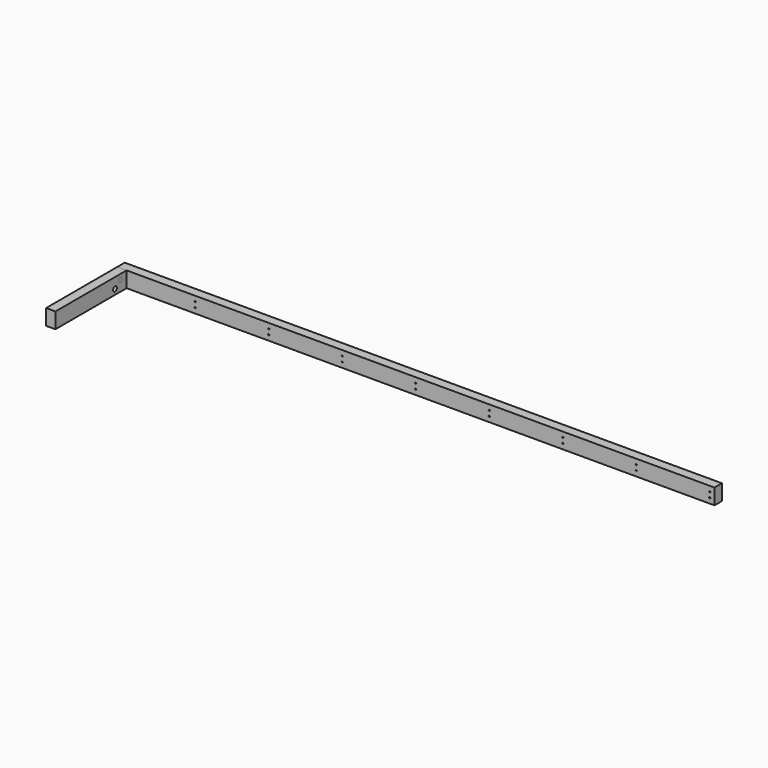
from build123d import *

# Parameters (mm, degrees)
F0_W      = 2387.6
F0_H      = 62.70498
F1_DEPTH  = 37.30498
F2_W      = 37.30498
F2_H      = 62.70498
F3_DEPTH  = 355.6
F5_D      = 15.875
F5_DEPTH  = 6.35
F5_TIP    = 4.7693311635
F6_D      = 4.7625
F8_D      = 19.05
F9_R      = 9.525
F10_DEPTH = 37.3126


with BuildPart() as f1:
    # F0 (on Front) → F1 (new body)
    with BuildSketch(Plane.XZ):
        Rectangle(F0_W, F0_H)
    extrude(amount=F1_DEPTH)

    # F5
    with Locations(Plane(origin=(0, 0, 0), x_dir=(-1, 0, 0), z_dir=(0, 1, 0))):
        with Locations((-1175.1437, 10.44829), (-1175.1437, -10.45591), (-881.2657, 10.44829), (-881.2657, -10.45591), (-587.3877, 10.44829), (-587.3877, -10.45591), (-293.5097, 10.44829), (-293.5097, -10.45591), (0.3683, 10.44829), (0.3683, -10.45591), (294.2463, 10.44829), (294.2463, -10.45591), (588.1243, 10.44829), (588.1243, -10.45591), (882.0023, 10.44829), (882.0023, -10.45591), (1175.131, 10.44829), (1175.131, -10.45591)):
            Hole(F5_D / 2, depth=F5_DEPTH)
            with Locations((0, 0, -(F5_DEPTH + F5_TIP / 2))):  # 118° drill point
                Cone(0, F5_D / 2, F5_TIP, mode=Mode.SUBTRACT)

    # F6 (through all)
    with Locations(Plane(origin=(0, 0, 0), x_dir=(-1, 0, 0), z_dir=(0, 1, 0))):
        with Locations((-1175.1437, 10.44829), (-1175.1437, -10.45591), (-881.2657, 10.44829), (-881.2657, -10.45591), (-587.3877, 10.44829), (-587.3877, -10.45591), (-293.5097, 10.44829), (-293.5097, -10.45591), (0.3683, 10.44829), (0.3683, -10.45591), (294.2463, 10.44829), (294.2463, -10.45591), (588.1243, 10.44829), (588.1243, -10.45591), (882.0023, 10.44829), (882.0023, -10.45591), (1175.131, 10.44829), (1175.131, -10.45591)):
            Hole(F6_D / 2)


with BuildPart() as f3:
    # F2 (on face) → F3 (new body)
    with BuildSketch(Plane.XZ.offset(37.30498)):
        with Locations((-1175.14751, 0)):
            Rectangle(F2_W, F2_H)
    extrude(amount=F3_DEPTH)

    # F8 (through all)
    with Locations(Plane(origin=(-1193.8, 0, 0), x_dir=(0, -1, 0), z_dir=(-1, 0, 0))):
        with Locations((69.05498, 10.44829), (95.25, -10.45591)):
            Hole(F8_D / 2)


with BuildPart() as f10:
    # F9 (on face) → F10 (new body)
    with BuildSketch(Plane(origin=(-1193.8, 0, 0), x_dir=(0, -1, 0), z_dir=(-1, 0, 0))):
        with Locations((69.05498, 10.44829)):
            Circle(F9_R)
    extrude(amount=-F10_DEPTH)


solid = Compound([f1.part, f3.part, f10.part])
